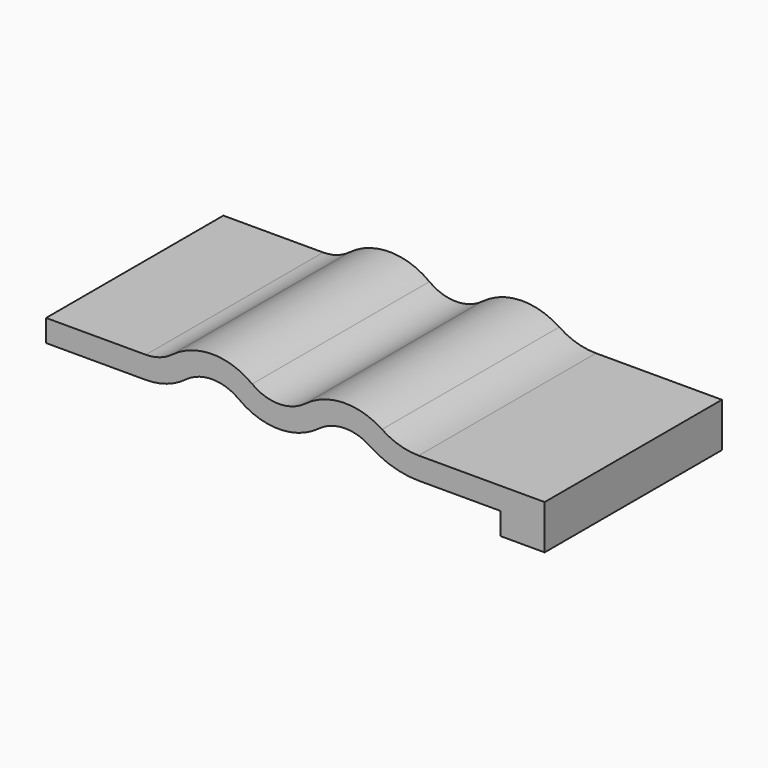
from build123d import *

# Parameters (mm, degrees)
F1_DEPTH = 20


with BuildPart() as f1:
    # F0 (on Front) → F1 (new body)
    with BuildSketch(Plane.XZ):
        with BuildLine():
            Line((-36, 4), (-45, 4))
            Line((-45, 4), (-45, 2))
            Line((-45, 2), (-36, 2))
            ThreePointArc((-36, 2), (-34.102633, 2.3079), (-32.4, 3.2))
            ThreePointArc((-32.4, 3.2), (-30, 4), (-27.6, 3.2))
            ThreePointArc((-27.6, 3.2), (-24, 2), (-20.4, 3.2))
            ThreePointArc((-20.4, 3.2), (-18.115615, 3.998329), (-15.788917, 3.333333))
            ThreePointArc((-15.788917, 3.333333), (-13.676151, 2.340583), (-11.36675, 2))
            Line((-11.36675, 2), (-4, 2))
            Line((-4, 2), (-4, 0))
            Line((-4, 0), (0, 0))
            Line((0, 0), (0, 4))
            Line((0, 4), (-4, 4))
            Line((-4, 4), (-11.36675, 4))
            ThreePointArc((-11.36675, 4), (-13.098801, 4.255437), (-14.683375, 5))
            ThreePointArc((-14.683375, 5), (-18.173423, 5.997493), (-21.6, 4.8))
            ThreePointArc((-21.6, 4.8), (-24, 4), (-26.4, 4.8))
            ThreePointArc((-26.4, 4.8), (-30, 6), (-33.6, 4.8))
            ThreePointArc((-33.6, 4.8), (-34.735089, 4.205267), (-36, 4))
        make_face()
    extrude(amount=F1_DEPTH)


solid = f1.part
